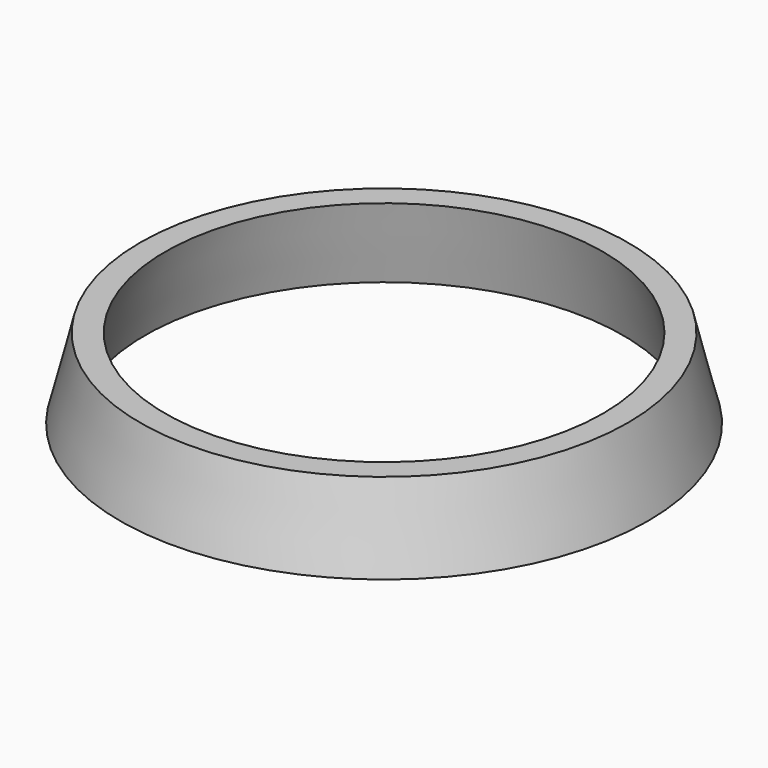
from build123d import *

# Parameters (mm, degrees)
F4_R = 33
F1_R = 30.5
F3_R = 29.875
F0_R = 27.375


with BuildPart() as f5:
    # F4 (on offset) → F5 section 0
    with BuildSketch(Plane.XY.offset(-10)):
        Circle(F4_R)
    # F1 (on Top) → F5 section 1
    with BuildSketch(Plane.XY):
        Circle(F1_R)
    loft()

    # F3 (on offset) → F6 section 0
    with BuildSketch(Plane.XY.offset(-10)):
        Circle(F3_R)
    # F0 (on Top) → F6 section 1
    with BuildSketch(Plane.XY):
        Circle(F0_R)
    loft(mode=Mode.SUBTRACT)


solid = f5.part
